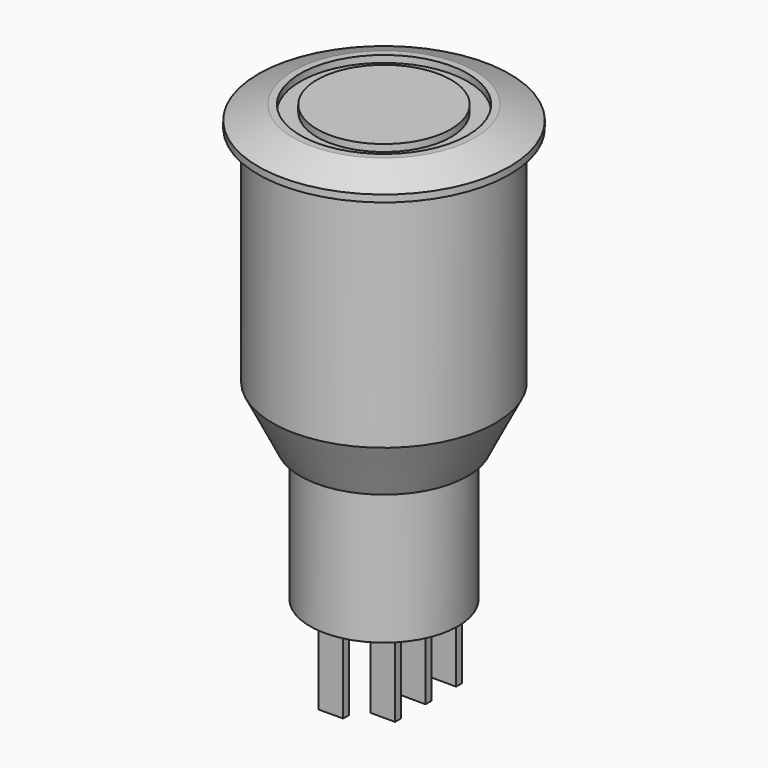
from build123d import *

# Parameters (mm, degrees)
F2_W     = 1.75
F2_H     = 0.53
F3_DEPTH = 5.5


with BuildPart() as f1:
    # F0 (on Front) → F1 (revolve)
    with BuildSketch(Plane.XZ):
        Polygon((4.8, 0), (0, 0), (0, -31.2), (5.3, -31.2), (5.3, -21.5), (6, -21.5), (8, -17.5), (8, -1.5), (9, -1.5), (9, -1), (6.5, 0), (6, 0), (6, -0.5), (4.8, -0.5), align=None)
    revolve(axis=Axis((0, 0, -15.6), (0, 0, 1)))

    # F2 (on face) → F3 (join)
    with BuildSketch(Plane(origin=(0, 0, -31.2), x_dir=(1, 0, 0), z_dir=(0, 0, -1))):
        with Locations((-0.204209, -4.235)):
            Rectangle(F2_W, F2_H)
        with Locations((2.315282, -2.735)):
            Rectangle(F2_W, F2_H)
        with Locations((2.315282, 0)):
            Rectangle(F2_W, F2_H)
        with Locations((2.315282, 2.735)):
            Rectangle(F2_W, F2_H)
        with Locations((-0.204209, 4.235)):
            Rectangle(F2_W, F2_H)
    extrude(amount=F3_DEPTH)


solid = f1.part
